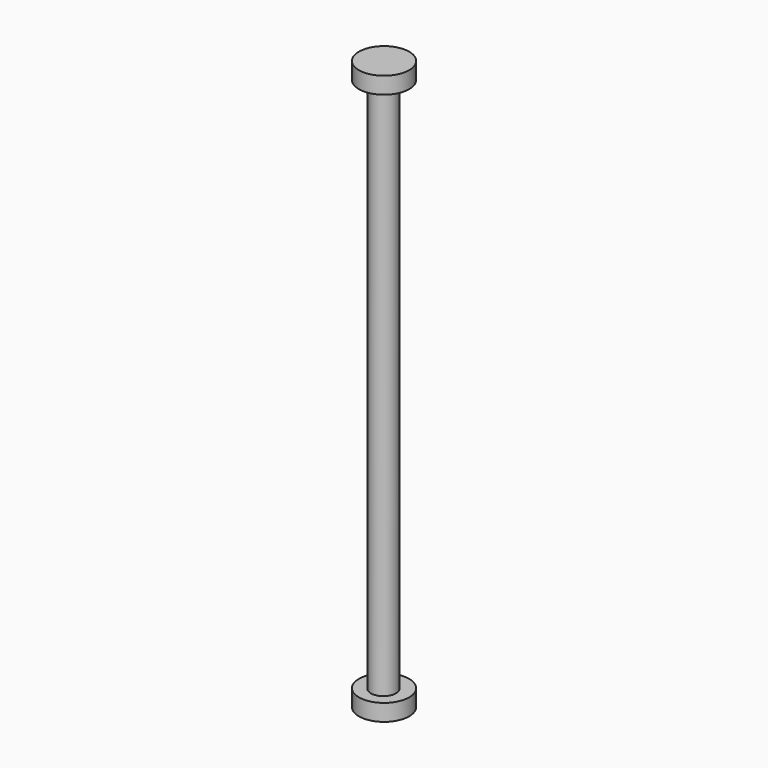
from build123d import *

# Parameters (mm, degrees)
SKETCH_R     = 1.5
PAD_DEPTH    = 32
SKETCH001_R  = 3
PAD001_DEPTH = 2
SKETCH002_R  = 3
PAD002_DEPTH = 2


with BuildPart() as part:
    # Sketch → Pad (new body, symmetric)
    with BuildSketch(Plane.XY):
        with Locations((0.039321, -0.137621)):
            Circle(SKETCH_R)
    extrude(amount=PAD_DEPTH, both=True)

    # Sketch001 (on Face2 of Pad) → Pad001 (join)
    with BuildSketch(Plane(origin=(0, 0, -32), x_dir=(1, 0, 0), z_dir=(0, 0, -1))):
        Circle(SKETCH001_R)
    extrude(amount=PAD001_DEPTH)

    # Sketch002 (on Face5 of Pad001) → Pad002 (join)
    with BuildSketch(Plane.XY.offset(32)):
        Circle(SKETCH002_R)
    extrude(amount=PAD002_DEPTH)


solid = part.part
